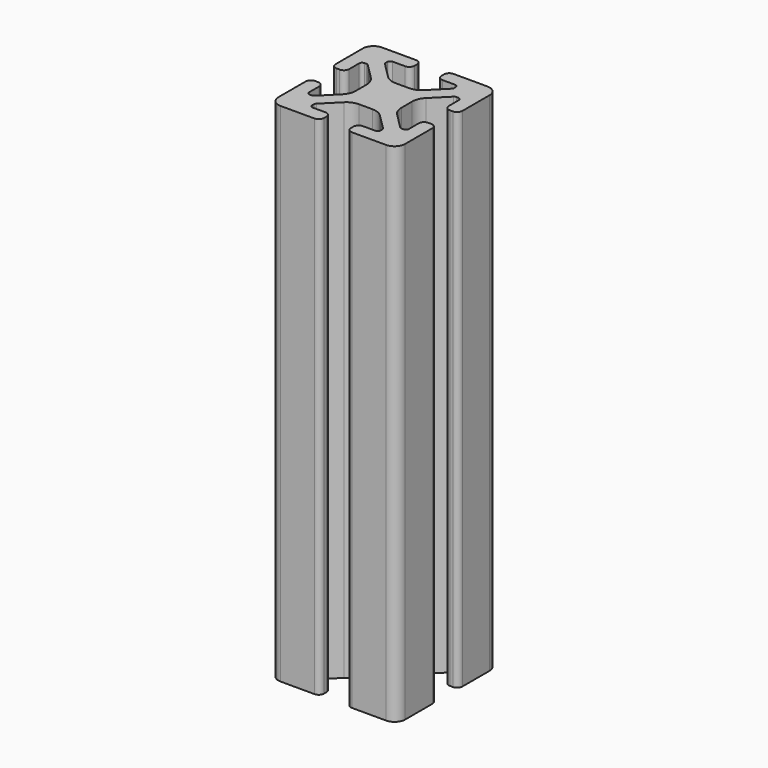
from build123d import *

# Parameters (mm, degrees)
F1_DEPTH = 152.4


with BuildPart() as f1:
    # F0 (on Top) → F1 (new body)
    with BuildSketch(Plane.XY):
        with BuildLine():
            ThreePointArc((0, 34.925), (-2.245064, 33.995064), (-3.175, 31.75))
            Line((-3.175, 31.75), (-3.175, 21.5138))
            ThreePointArc((-3.175, 21.5138), (-2.713752, 20.400248), (-1.6002, 19.939))
            Line((-1.6002, 19.939), (-0.6858, 19.939))
            ThreePointArc((-0.6858, 19.939), (0.427752, 20.400248), (0.889, 21.5138))
            Line((0.889, 21.5138), (0.889, 25.273))
            ThreePointArc((0.889, 25.273), (1.149382, 25.901618), (1.778, 26.162))
            Line((1.778, 26.162), (2.346082, 26.162))
            ThreePointArc((2.346082, 26.162), (2.686288, 26.094329), (2.9747, 25.901618))
            Line((2.9747, 25.901618), (7.61416, 21.262158))
            ThreePointArc((7.61416, 21.262158), (8.643787, 19.721212), (9.005344, 17.903543))
            Line((9.005344, 17.903543), (9.005344, 13.846457))
            ThreePointArc((9.005344, 13.846457), (8.643787, 12.028788), (7.61416, 10.487842))
            Line((7.61416, 10.487842), (2.9747, 5.848382))
            ThreePointArc((2.9747, 5.848382), (2.686288, 5.655671), (2.346082, 5.588))
            Line((2.346082, 5.588), (1.778, 5.588))
            ThreePointArc((1.778, 5.588), (1.149382, 5.848382), (0.889, 6.477))
            Line((0.889, 6.477), (0.889, 10.2362))
            ThreePointArc((0.889, 10.2362), (0.427752, 11.349752), (-0.6858, 11.811))
            Line((-0.6858, 11.811), (-1.6002, 11.811))
            ThreePointArc((-1.6002, 11.811), (-2.713752, 11.349752), (-3.175, 10.2362))
            Line((-3.175, 10.2362), (-3.175, 0))
            ThreePointArc((-3.175, 0), (-2.245064, -2.245064), (0, -3.175))
            Line((0, -3.175), (10.2362, -3.175))
            ThreePointArc((10.2362, -3.175), (11.349752, -2.713752), (11.811, -1.6002))
            Line((11.811, -1.6002), (11.811, -0.6858))
            ThreePointArc((11.811, -0.6858), (11.349752, 0.427752), (10.2362, 0.889))
            Line((10.2362, 0.889), (6.477, 0.889))
            ThreePointArc((6.477, 0.889), (5.848382, 1.149382), (5.588, 1.778))
            Line((5.588, 1.778), (5.588, 2.346082))
            ThreePointArc((5.588, 2.346082), (5.655671, 2.686288), (5.848382, 2.9747))
            Line((5.848382, 2.9747), (10.487842, 7.61416))
            ThreePointArc((10.487842, 7.61416), (12.028788, 8.643787), (13.846457, 9.005344))
            Line((13.846457, 9.005344), (17.903543, 9.005344))
            ThreePointArc((17.903543, 9.005344), (19.721212, 8.643787), (21.262158, 7.61416))
            Line((21.262158, 7.61416), (25.901618, 2.9747))
            ThreePointArc((25.901618, 2.9747), (26.094329, 2.686288), (26.162, 2.346082))
            Line((26.162, 2.346082), (26.162, 1.778))
            ThreePointArc((26.162, 1.778), (25.901618, 1.149382), (25.273, 0.889))
            Line((25.273, 0.889), (21.5138, 0.889))
            ThreePointArc((21.5138, 0.889), (20.400248, 0.427752), (19.939, -0.6858))
            Line((19.939, -0.6858), (19.939, -1.6002))
            ThreePointArc((19.939, -1.6002), (20.400248, -2.713752), (21.5138, -3.175))
            Line((21.5138, -3.175), (31.75, -3.175))
            ThreePointArc((31.75, -3.175), (33.995064, -2.245064), (34.925, 0))
            Line((34.925, 0), (34.925, 10.2362))
            ThreePointArc((34.925, 10.2362), (34.463752, 11.349752), (33.3502, 11.811))
            Line((33.3502, 11.811), (32.4358, 11.811))
            ThreePointArc((32.4358, 11.811), (31.322248, 11.349752), (30.861, 10.2362))
            Line((30.861, 10.2362), (30.861, 6.477))
            ThreePointArc((30.861, 6.477), (30.600618, 5.848382), (29.972, 5.588))
            Line((29.972, 5.588), (29.403918, 5.588))
            ThreePointArc((29.403918, 5.588), (29.063712, 5.655671), (28.7753, 5.848382))
            Line((28.7753, 5.848382), (24.13584, 10.487842))
            ThreePointArc((24.13584, 10.487842), (23.106213, 12.028788), (22.744656, 13.846457))
            Line((22.744656, 13.846457), (22.744656, 17.903543))
            ThreePointArc((22.744656, 17.903543), (23.106213, 19.721212), (24.13584, 21.262158))
            Line((24.13584, 21.262158), (28.7753, 25.901618))
            ThreePointArc((28.7753, 25.901618), (29.063712, 26.094329), (29.403918, 26.162))
            Line((29.403918, 26.162), (29.972, 26.162))
            ThreePointArc((29.972, 26.162), (30.600618, 25.901618), (30.861, 25.273))
            Line((30.861, 25.273), (30.861, 21.5138))
            ThreePointArc((30.861, 21.5138), (31.322248, 20.400248), (32.4358, 19.939))
            Line((32.4358, 19.939), (33.3502, 19.939))
            ThreePointArc((33.3502, 19.939), (34.463752, 20.400248), (34.925, 21.5138))
            Line((34.925, 21.5138), (34.925, 31.75))
            ThreePointArc((34.925, 31.75), (33.995064, 33.995064), (31.75, 34.925))
            Line((31.75, 34.925), (21.5138, 34.925))
            ThreePointArc((21.5138, 34.925), (20.400248, 34.463752), (19.939, 33.3502))
            Line((19.939, 33.3502), (19.939, 32.4358))
            ThreePointArc((19.939, 32.4358), (20.400248, 31.322248), (21.5138, 30.861))
            Line((21.5138, 30.861), (25.273, 30.861))
            ThreePointArc((25.273, 30.861), (25.901618, 30.600618), (26.162, 29.972))
            Line((26.162, 29.972), (26.162, 29.403918))
            ThreePointArc((26.162, 29.403918), (26.094329, 29.063712), (25.901618, 28.7753))
            Line((25.901618, 28.7753), (21.262158, 24.13584))
            ThreePointArc((21.262158, 24.13584), (19.721212, 23.106213), (17.903543, 22.744656))
            Line((17.903543, 22.744656), (13.846457, 22.744656))
            ThreePointArc((13.846457, 22.744656), (12.028788, 23.106213), (10.487842, 24.13584))
            Line((10.487842, 24.13584), (5.848382, 28.7753))
            ThreePointArc((5.848382, 28.7753), (5.655671, 29.063712), (5.588, 29.403918))
            Line((5.588, 29.403918), (5.588, 29.972))
            ThreePointArc((5.588, 29.972), (5.848382, 30.600618), (6.477, 30.861))
            Line((6.477, 30.861), (10.2362, 30.861))
            ThreePointArc((10.2362, 30.861), (11.349752, 31.322248), (11.811, 32.4358))
            Line((11.811, 32.4358), (11.811, 33.3502))
            ThreePointArc((11.811, 33.3502), (11.349752, 34.463752), (10.2362, 34.925))
            Line((10.2362, 34.925), (0, 34.925))
        make_face()
    extrude(amount=-F1_DEPTH)


solid = f1.part
